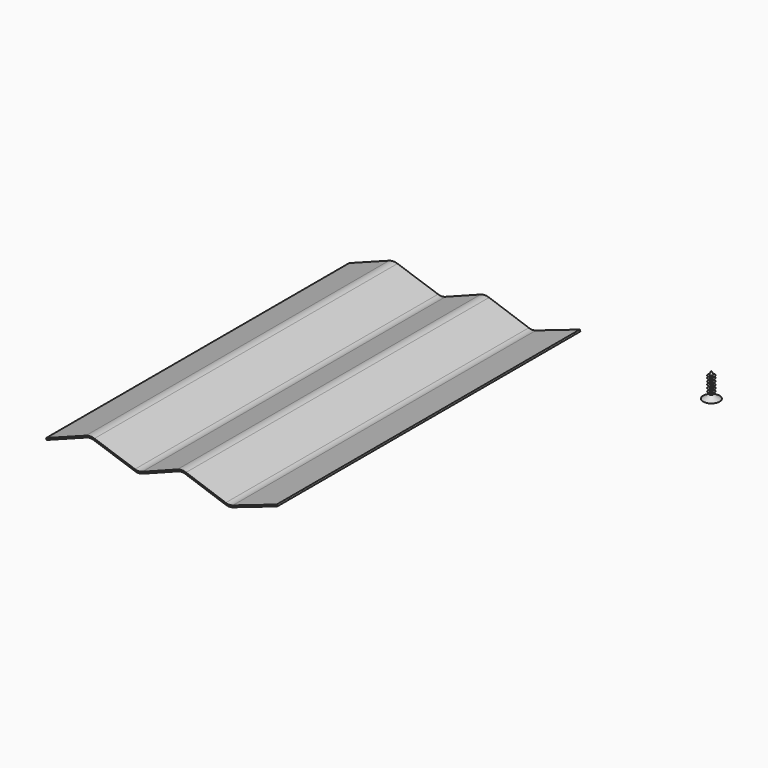
from build123d import *

# Parameters (mm, degrees)
F1_DEPTH = 292.1
F5_DEPTH = 1.27


with BuildPart() as f1:
    # F0 (on Front) → F1 (new body)
    with BuildSketch(Plane.XZ):
        with BuildLine():
            Line((-279.27507, 1.187749), (-278.825457, 0))
            Line((-278.825457, 0), (-248.088821, 11.635094))
            ThreePointArc((-248.088821, 11.635094), (-245.266575, 12.176691), (-242.427261, 11.733181))
            Line((-242.427261, 11.733181), (-210.725298, 0.972653))
            ThreePointArc((-210.725298, 0.972653), (-207.869918, 0.529437), (-205.033702, 1.082175))
            Line((-205.033702, 1.082175), (-177.548922, 11.606967))
            ThreePointArc((-177.548922, 11.606967), (-174.685882, 12.160179), (-171.806571, 11.69908))
            Line((-171.806571, 11.69908), (-140.781749, 0.946414))
            ThreePointArc((-140.781749, 0.946414), (-138.050272, 0.484248), (-135.317333, 0.93768))
            Line((-135.317333, 0.93768), (-101.025457, 12.7))
            Line((-101.025457, 12.7), (-101.437509, 13.901296))
            Line((-101.437509, 13.901296), (-135.315186, 2.281049))
            ThreePointArc((-135.315186, 2.281049), (-138.048125, 1.827617), (-140.779602, 2.289783))
            Line((-140.779602, 2.289783), (-171.390681, 12.899053))
            ThreePointArc((-171.390681, 12.899053), (-174.706251, 13.430015), (-178.003085, 12.792984))
            Line((-178.003085, 12.792984), (-205.05968, 2.432158))
            ThreePointArc((-205.05968, 2.432158), (-207.895895, 1.87942), (-210.751275, 2.322636))
            Line((-210.751275, 2.322636), (-242.019062, 12.935792))
            ThreePointArc((-242.019062, 12.935792), (-245.288574, 13.4465), (-248.538433, 12.822844))
            Line((-248.538433, 12.822844), (-279.27507, 1.187749))
        make_face()
    extrude(amount=F1_DEPTH)


with BuildPart() as f3:
    # F2 (on Front) → F3 (revolve)
    with BuildSketch(Plane.XZ):
        Polygon((-6.35, 0), (0, 0), (0, 19.05), (-1.27, 16.256916), (-2.54, 15.764615), (-1.27, 15.379577), (-1.27, 14.515168), (-2.54, 14.095127), (-1.27, 13.640082), (-1.27, 12.18462), (-2.54, 11.764579), (-1.27, 11.344538), (-1.27, 9.924078), (-2.54, 9.504037), (-1.27, 8.978986), (-1.27, 7.628533), (-2.54, 7.208492), (-1.27, 6.753448), (-1.27, 5.374726), (-2.54, 4.954685), (-1.27, 4.49964), (-1.27, 2.961306), align=None)
    revolve(axis=Axis((0, 0, 9.525), (0, 0, -1)))

    # F4 (on face) → F5 (cut)
    with BuildSketch(Plane(origin=(0, 0, 0), x_dir=(1, 0, 0), z_dir=(0, 0, -1))):
        Polygon((1.037806, 3.893726), (-1.037806, 3.893726), (-1.037806, 1.014865), (-3.870785, 1.014865), (-3.870785, -1.014865), (-1.037806, -1.014865), (-1.037806, -3.893726), (1.037806, -3.893726), (1.037806, -1.014865), (3.870785, -1.014865), (3.870785, 1.014865), (1.037806, 1.014865), align=None)
    extrude(amount=-F5_DEPTH, mode=Mode.SUBTRACT)


solid = Compound([f1.part, f3.part])
